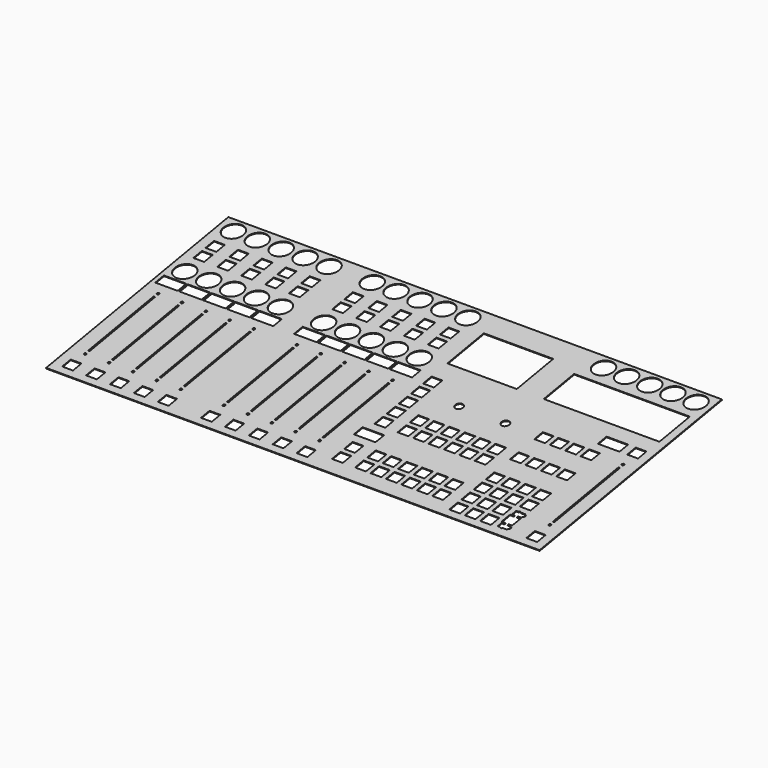
from build123d import *

# Parameters (mm, degrees)
SKETCH_W             = 640
SKETCH_H             = 300
PAD_DEPTH            = 1
SKETCH001_R          = 13
SKETCH001_R_2        = 1.5
SKETCH001_W          = 14
SKETCH001_H          = 14
SKETCH001_W_2        = 29
SKETCH001_H_2        = 14.25
SKETCH001_W_3        = 2
SKETCH001_H_3        = 108
POCKET_DEPTH         = 1.5
SKETCH002_R          = 13
SKETCH002_R_2        = 1.5
SKETCH002_W          = 14
SKETCH002_H          = 14
SKETCH002_W_2        = 29
SKETCH002_H_2        = 14.25
SKETCH002_W_3        = 2
SKETCH002_H_3        = 108
POCKET001_DEPTH      = 1.5
SKETCH008_W          = 14
SKETCH008_H          = 14
SKETCH008_W_2        = 28
SKETCH008_H_2        = 14.25
POCKET002_DEPTH      = 1.5
SKETCH005_W          = 14
SKETCH005_H          = 14
POCKET003_DEPTH      = 1.5
SKETCH006_W          = 14
SKETCH006_H          = 14
POCKET004_DEPTH      = 1.5
SKETCH004_W          = 14
SKETCH004_H          = 14
POCKET005_DEPTH      = 1.5
SKETCH007_W          = 14
SKETCH007_H          = 14
POCKET006_DEPTH      = 1.5
SKETCH003_R          = 1.5
SKETCH003_W          = 14
SKETCH003_H          = 14
SKETCH003_W_2        = 2
SKETCH003_H_2        = 108
POCKET007_DEPTH      = 1.5
SKETCH009_R          = 13
POCKET008_DEPTH      = 1.5
SKETCH010_W          = 90
SKETCH010_H          = 60
SKETCH010_W_2        = 150
SKETCH010_H_2        = 50
POCKET009_DEPTH      = 1.5
SKETCH011_R          = 5
POCKET010_DEPTH      = 1.5
SKETCH012_W          = 14
SKETCH012_H          = 14
SKETCH012_W_2        = 28
SKETCH012_H_2        = 14.25
POCKET011_DEPTH      = 1.5
BODY_PLACEMENT_ANGLE = 10


with BuildPart() as part:
    # Sketch → Pad (new body)
    with BuildSketch(Plane.XY):
        Rectangle(SKETCH_W, SKETCH_H)
    extrude(amount=PAD_DEPTH)

    # Sketch001 (on Face6 of Pad) → Pocket (cut)
    with BuildSketch(Plane.XY.offset(1)):
        with Locations((-300, 133)):
            Circle(SKETCH001_R)
        with Locations((-300, 53)):
            Circle(SKETCH001_R)
        with Locations((-300, 9)):
            Circle(SKETCH001_R_2)
        with Locations((-300, -111)):
            Circle(SKETCH001_R_2)
        with Locations((-269, 133)):
            Circle(SKETCH001_R)
        with Locations((-269, 53)):
            Circle(SKETCH001_R)
        with Locations((-269, 9)):
            Circle(SKETCH001_R_2)
        with Locations((-269, -111)):
            Circle(SKETCH001_R_2)
        with Locations((-238, 133)):
            Circle(SKETCH001_R)
        with Locations((-238, 53)):
            Circle(SKETCH001_R)
        with Locations((-238, 9)):
            Circle(SKETCH001_R_2)
        with Locations((-238, -111)):
            Circle(SKETCH001_R_2)
        with Locations((-207, 133)):
            Circle(SKETCH001_R)
        with Locations((-207, 53)):
            Circle(SKETCH001_R)
        with Locations((-207, 9)):
            Circle(SKETCH001_R_2)
        with Locations((-207, -111)):
            Circle(SKETCH001_R_2)
        with Locations((-176, 133)):
            Circle(SKETCH001_R)
        with Locations((-176, 53)):
            Circle(SKETCH001_R)
        with Locations((-176, 9)):
            Circle(SKETCH001_R_2)
        with Locations((-176, -111)):
            Circle(SKETCH001_R_2)
        with Locations((-300, 103)):
            Rectangle(SKETCH001_W, SKETCH001_H)
        with Locations((-300, 29.875)):
            Rectangle(SKETCH001_W_2, SKETCH001_H_2)
        with Locations((-300, 83)):
            Rectangle(SKETCH001_W, SKETCH001_H)
        with Locations((-300, -51)):
            Rectangle(SKETCH001_W_3, SKETCH001_H_3)
        with Locations((-300, -133)):
            Rectangle(SKETCH001_W, SKETCH001_H)
        with Locations((-269, 103)):
            Rectangle(SKETCH001_W, SKETCH001_H)
        with Locations((-269, 29.875)):
            Rectangle(SKETCH001_W_2, SKETCH001_H_2)
        with Locations((-269, 83)):
            Rectangle(SKETCH001_W, SKETCH001_H)
        with Locations((-269, -51)):
            Rectangle(SKETCH001_W_3, SKETCH001_H_3)
        with Locations((-269, -133)):
            Rectangle(SKETCH001_W, SKETCH001_H)
        with Locations((-238, 103)):
            Rectangle(SKETCH001_W, SKETCH001_H)
        with Locations((-238, 29.875)):
            Rectangle(SKETCH001_W_2, SKETCH001_H_2)
        with Locations((-238, 83)):
            Rectangle(SKETCH001_W, SKETCH001_H)
        with Locations((-238, -51)):
            Rectangle(SKETCH001_W_3, SKETCH001_H_3)
        with Locations((-238, -133)):
            Rectangle(SKETCH001_W, SKETCH001_H)
        with Locations((-207, 103)):
            Rectangle(SKETCH001_W, SKETCH001_H)
        with Locations((-207, 29.875)):
            Rectangle(SKETCH001_W_2, SKETCH001_H_2)
        with Locations((-207, 83)):
            Rectangle(SKETCH001_W, SKETCH001_H)
        with Locations((-207, -51)):
            Rectangle(SKETCH001_W_3, SKETCH001_H_3)
        with Locations((-207, -133)):
            Rectangle(SKETCH001_W, SKETCH001_H)
        with Locations((-176, 103)):
            Rectangle(SKETCH001_W, SKETCH001_H)
        with Locations((-176, 29.875)):
            Rectangle(SKETCH001_W_2, SKETCH001_H_2)
        with Locations((-176, 83)):
            Rectangle(SKETCH001_W, SKETCH001_H)
        with Locations((-176, -51)):
            Rectangle(SKETCH001_W_3, SKETCH001_H_3)
        with Locations((-176, -133)):
            Rectangle(SKETCH001_W, SKETCH001_H)
    extrude(amount=-POCKET_DEPTH, mode=Mode.SUBTRACT)

    # Sketch002 (on Face6 of Pad) → Pocket001 (cut)
    with BuildSketch(Plane.XY.offset(1)):
        with Locations((-120, 133)):
            Circle(SKETCH002_R)
        with Locations((-120, 53)):
            Circle(SKETCH002_R)
        with Locations((-120, 9)):
            Circle(SKETCH002_R_2)
        with Locations((-120, -111)):
            Circle(SKETCH002_R_2)
        with Locations((-89, 133)):
            Circle(SKETCH002_R)
        with Locations((-89, 53)):
            Circle(SKETCH002_R)
        with Locations((-89, 9)):
            Circle(SKETCH002_R_2)
        with Locations((-89, -111)):
            Circle(SKETCH002_R_2)
        with Locations((-58, 133)):
            Circle(SKETCH002_R)
        with Locations((-58, 53)):
            Circle(SKETCH002_R)
        with Locations((-58, 9)):
            Circle(SKETCH002_R_2)
        with Locations((-58, -111)):
            Circle(SKETCH002_R_2)
        with Locations((-27, 133)):
            Circle(SKETCH002_R)
        with Locations((-27, 53)):
            Circle(SKETCH002_R)
        with Locations((-27, 9)):
            Circle(SKETCH002_R_2)
        with Locations((-27, -111)):
            Circle(SKETCH002_R_2)
        with Locations((4, 133)):
            Circle(SKETCH002_R)
        with Locations((4, 53)):
            Circle(SKETCH002_R)
        with Locations((4, 9)):
            Circle(SKETCH002_R_2)
        with Locations((4, -111)):
            Circle(SKETCH002_R_2)
        with Locations((-120, 103)):
            Rectangle(SKETCH002_W, SKETCH002_H)
        with Locations((-120, 29.875)):
            Rectangle(SKETCH002_W_2, SKETCH002_H_2)
        with Locations((-120, 83)):
            Rectangle(SKETCH002_W, SKETCH002_H)
        with Locations((-120, -51)):
            Rectangle(SKETCH002_W_3, SKETCH002_H_3)
        with Locations((-120, -133)):
            Rectangle(SKETCH002_W, SKETCH002_H)
        with Locations((-89, 103)):
            Rectangle(SKETCH002_W, SKETCH002_H)
        with Locations((-89, 29.875)):
            Rectangle(SKETCH002_W_2, SKETCH002_H_2)
        with Locations((-89, 83)):
            Rectangle(SKETCH002_W, SKETCH002_H)
        with Locations((-89, -51)):
            Rectangle(SKETCH002_W_3, SKETCH002_H_3)
        with Locations((-89, -133)):
            Rectangle(SKETCH002_W, SKETCH002_H)
        with Locations((-58, 103)):
            Rectangle(SKETCH002_W, SKETCH002_H)
        with Locations((-58, 29.875)):
            Rectangle(SKETCH002_W_2, SKETCH002_H_2)
        with Locations((-58, 83)):
            Rectangle(SKETCH002_W, SKETCH002_H)
        with Locations((-58, -51)):
            Rectangle(SKETCH002_W_3, SKETCH002_H_3)
        with Locations((-58, -133)):
            Rectangle(SKETCH002_W, SKETCH002_H)
        with Locations((-27, 103)):
            Rectangle(SKETCH002_W, SKETCH002_H)
        with Locations((-27, 29.875)):
            Rectangle(SKETCH002_W_2, SKETCH002_H_2)
        with Locations((-27, 83)):
            Rectangle(SKETCH002_W, SKETCH002_H)
        with Locations((-27, -51)):
            Rectangle(SKETCH002_W_3, SKETCH002_H_3)
        with Locations((-27, -133)):
            Rectangle(SKETCH002_W, SKETCH002_H)
        with Locations((4, 103)):
            Rectangle(SKETCH002_W, SKETCH002_H)
        with Locations((4, 29.875)):
            Rectangle(SKETCH002_W_2, SKETCH002_H_2)
        with Locations((4, 83)):
            Rectangle(SKETCH002_W, SKETCH002_H)
        with Locations((4, -51)):
            Rectangle(SKETCH002_W_3, SKETCH002_H_3)
        with Locations((4, -133)):
            Rectangle(SKETCH002_W, SKETCH002_H)
    extrude(amount=-POCKET001_DEPTH, mode=Mode.SUBTRACT)

    # Sketch008 (on Face6 of Pad) → Pocket002 (cut)
    with BuildSketch(Plane.XY.offset(1)):
        with Locations((42, -123)):
            Rectangle(SKETCH008_W, SKETCH008_H)
        with Locations((42, -103)):
            Rectangle(SKETCH008_W, SKETCH008_H)
        with Locations((42, -53)):
            Rectangle(SKETCH008_W, SKETCH008_H)
        with Locations((42, -33)):
            Rectangle(SKETCH008_W, SKETCH008_H)
        with Locations((42, -13)):
            Rectangle(SKETCH008_W, SKETCH008_H)
        with Locations((42, 7)):
            Rectangle(SKETCH008_W, SKETCH008_H)
        with Locations((42, -77.875)):
            Rectangle(SKETCH008_W_2, SKETCH008_H_2)
        with Locations((42, 27)):
            Rectangle(SKETCH008_W, SKETCH008_H)
    extrude(amount=-POCKET002_DEPTH, mode=Mode.SUBTRACT)

    # Sketch005 (on Face6 of Pad) → Pocket003 (cut)
    with BuildSketch(Plane.XY.offset(1)):
        with Locations((72, -123)):
            Rectangle(SKETCH005_W, SKETCH005_H)
        with Locations((72, -103)):
            Rectangle(SKETCH005_W, SKETCH005_H)
        with Locations((92, -123)):
            Rectangle(SKETCH005_W, SKETCH005_H)
        with Locations((92, -103)):
            Rectangle(SKETCH005_W, SKETCH005_H)
        with Locations((112, -123)):
            Rectangle(SKETCH005_W, SKETCH005_H)
        with Locations((112, -103)):
            Rectangle(SKETCH005_W, SKETCH005_H)
        with Locations((132, -123)):
            Rectangle(SKETCH005_W, SKETCH005_H)
        with Locations((132, -103)):
            Rectangle(SKETCH005_W, SKETCH005_H)
        with Locations((152, -123)):
            Rectangle(SKETCH005_W, SKETCH005_H)
        with Locations((152, -103)):
            Rectangle(SKETCH005_W, SKETCH005_H)
        with Locations((172, -123)):
            Rectangle(SKETCH005_W, SKETCH005_H)
        with Locations((172, -103)):
            Rectangle(SKETCH005_W, SKETCH005_H)
    extrude(amount=-POCKET003_DEPTH, mode=Mode.SUBTRACT)

    # Sketch006 (on Face6 of Pad) → Pocket004 (cut)
    with BuildSketch(Plane.XY.offset(1)):
        with Locations((72, -53)):
            Rectangle(SKETCH006_W, SKETCH006_H)
        with Locations((72, -33)):
            Rectangle(SKETCH006_W, SKETCH006_H)
        with Locations((92, -53)):
            Rectangle(SKETCH006_W, SKETCH006_H)
        with Locations((92, -33)):
            Rectangle(SKETCH006_W, SKETCH006_H)
        with Locations((112, -53)):
            Rectangle(SKETCH006_W, SKETCH006_H)
        with Locations((112, -33)):
            Rectangle(SKETCH006_W, SKETCH006_H)
        with Locations((132, -53)):
            Rectangle(SKETCH006_W, SKETCH006_H)
        with Locations((132, -33)):
            Rectangle(SKETCH006_W, SKETCH006_H)
        with Locations((152, -53)):
            Rectangle(SKETCH006_W, SKETCH006_H)
        with Locations((152, -33)):
            Rectangle(SKETCH006_W, SKETCH006_H)
        with Locations((172, -53)):
            Rectangle(SKETCH006_W, SKETCH006_H)
        with Locations((172, -33)):
            Rectangle(SKETCH006_W, SKETCH006_H)
    extrude(amount=-POCKET004_DEPTH, mode=Mode.SUBTRACT)

    # Sketch004 (on Face6 of Pad) → Pocket005 (cut)
    with BuildSketch(Plane.XY.offset(1)):
        with Locations((202, -73)):
            Rectangle(SKETCH004_W, SKETCH004_H)
        with Locations((222, -73)):
            Rectangle(SKETCH004_W, SKETCH004_H)
        with Locations((242, -73)):
            Rectangle(SKETCH004_W, SKETCH004_H)
        with Locations((262, -73)):
            Rectangle(SKETCH004_W, SKETCH004_H)
        with Locations((202, -93)):
            Rectangle(SKETCH004_W, SKETCH004_H)
        with Locations((222, -93)):
            Rectangle(SKETCH004_W, SKETCH004_H)
        with Locations((242, -93)):
            Rectangle(SKETCH004_W, SKETCH004_H)
        with Locations((262, -93)):
            Rectangle(SKETCH004_W, SKETCH004_H)
        with Locations((202, -113)):
            Rectangle(SKETCH004_W, SKETCH004_H)
        with Locations((222, -113)):
            Rectangle(SKETCH004_W, SKETCH004_H)
        with Locations((242, -113)):
            Rectangle(SKETCH004_W, SKETCH004_H)
        with Locations((202, -133)):
            Rectangle(SKETCH004_W, SKETCH004_H)
        with Locations((222, -133)):
            Rectangle(SKETCH004_W, SKETCH004_H)
        with Locations((242, -133)):
            Rectangle(SKETCH004_W, SKETCH004_H)
        Polygon((255, -130), (255, -116), (259.7, -116), (259.7, -114.475), (256.47, -114.475), (256.47, -107.725), (259.7, -107.725), (259.7, -106.9), (262.485, -106.9), (262.485, -107.725), (268.77, -107.725), (268.77, -109.45), (270.495, -109.45), (270.495, -112.75), (268.77, -112.75), (268.77, -114.475), (264.07, -114.475), (264.07, -116), (268.77, -116), (268.77, -130), (264.07, -130), (264.07, -131.525), (268.77, -131.525), (268.77, -133.25), (270.495, -133.25), (270.495, -136.55), (268.77, -136.55), (268.77, -138.275), (262.485, -138.275), (262.485, -139.1), (259.7, -139.1), (259.7, -138.275), (256.47, -138.275), (256.47, -131.525), (259.7, -131.525), (259.7, -130), align=None)
    extrude(amount=-POCKET005_DEPTH, mode=Mode.SUBTRACT)

    # Sketch007 (on Face6 of Pad) → Pocket006 (cut)
    with BuildSketch(Plane.XY.offset(1)):
        with Locations((202, -33)):
            Rectangle(SKETCH007_W, SKETCH007_H)
        with Locations((222, -33)):
            Rectangle(SKETCH007_W, SKETCH007_H)
        with Locations((242, -33)):
            Rectangle(SKETCH007_W, SKETCH007_H)
        with Locations((262, -33)):
            Rectangle(SKETCH007_W, SKETCH007_H)
        with Locations((202, 7)):
            Rectangle(SKETCH007_W, SKETCH007_H)
        with Locations((222, 7)):
            Rectangle(SKETCH007_W, SKETCH007_H)
        with Locations((242, 7)):
            Rectangle(SKETCH007_W, SKETCH007_H)
        with Locations((262, 7)):
            Rectangle(SKETCH007_W, SKETCH007_H)
    extrude(amount=-POCKET006_DEPTH, mode=Mode.SUBTRACT)

    # Sketch003 (on Face6 of Pad) → Pocket007 (cut)
    with BuildSketch(Plane.XY.offset(1)):
        with Locations((302, -110)):
            Circle(SKETCH003_R)
        with Locations((302, 10)):
            Circle(SKETCH003_R)
        with Locations((302, -133)):
            Rectangle(SKETCH003_W, SKETCH003_H)
        with Locations((302, -50)):
            Rectangle(SKETCH003_W_2, SKETCH003_H_2)
    extrude(amount=-POCKET007_DEPTH, mode=Mode.SUBTRACT)

    # Sketch009 (on Face6 of Pad) → Pocket008 (cut)
    with BuildSketch(Plane.XY.offset(1)):
        with Locations((300, 133)):
            Circle(SKETCH009_R)
        with Locations((270, 133)):
            Circle(SKETCH009_R)
        with Locations((240, 133)):
            Circle(SKETCH009_R)
        with Locations((210, 133)):
            Circle(SKETCH009_R)
        with Locations((180, 133)):
            Circle(SKETCH009_R)
    extrude(amount=-POCKET008_DEPTH, mode=Mode.SUBTRACT)

    # Sketch010 (on Face6 of Pad) → Pocket009 (cut)
    with BuildSketch(Plane.XY.offset(1)):
        with Locations((80, 90)):
            Rectangle(SKETCH010_W, SKETCH010_H)
        with Locations((235, 85)):
            Rectangle(SKETCH010_W_2, SKETCH010_H_2)
    extrude(amount=-POCKET009_DEPTH, mode=Mode.SUBTRACT)

    # Sketch011 (on Face6 of Pad) → Pocket010 (cut)
    with BuildSketch(Plane.XY.offset(1)):
        with Locations((92, 7)):
            Circle(SKETCH011_R)
        with Locations((152, 7)):
            Circle(SKETCH011_R)
    extrude(amount=-POCKET010_DEPTH, mode=Mode.SUBTRACT)

    # Sketch012 (on Face6 of Pad) → Pocket011 (cut)
    with BuildSketch(Plane.XY.offset(1)):
        with Locations((302, 33)):
            Rectangle(SKETCH012_W, SKETCH012_H)
        with Locations((271, 33.125)):
            Rectangle(SKETCH012_W_2, SKETCH012_H_2)
    extrude(amount=-POCKET011_DEPTH, mode=Mode.SUBTRACT)


with BuildPart() as part_1:
    # Body placement: moved
    add(part.part.moved(Location((0, 0, 70))).rotate(Axis((0, 0, 70), (1, 0, 0)), BODY_PLACEMENT_ANGLE))


solid = part_1.part
